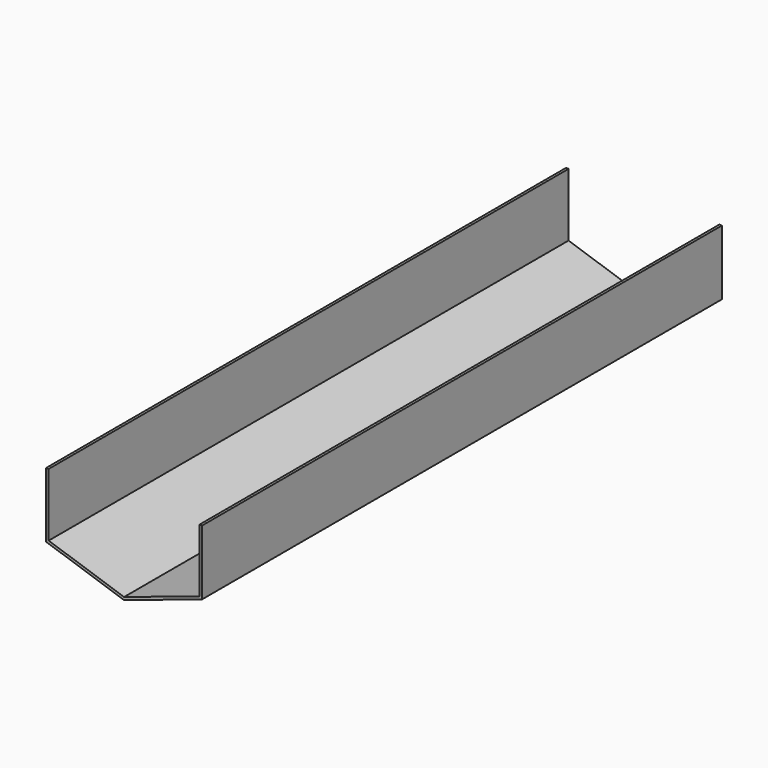
from build123d import *

# Parameters (mm, degrees)
F1_DEPTH = 500
F2_T     = -2


with BuildPart() as f1:
    # F0 (on Front) → F1 (new body)
    with BuildSketch(Plane.XZ):
        Polygon((60, 70), (-60, 70), (-60, 20), (0, 0), (60, 20), align=None)
    extrude(amount=F1_DEPTH)

    # F2
    f2_openings = [f1.faces().sort_by_distance(p)[0] for p in [
        (0, -250, 70),
        (0, -500, 39.722222),
        (0, 0, 39.722222),
    ]]
    offset(amount=F2_T, openings=f2_openings)


solid = f1.part
